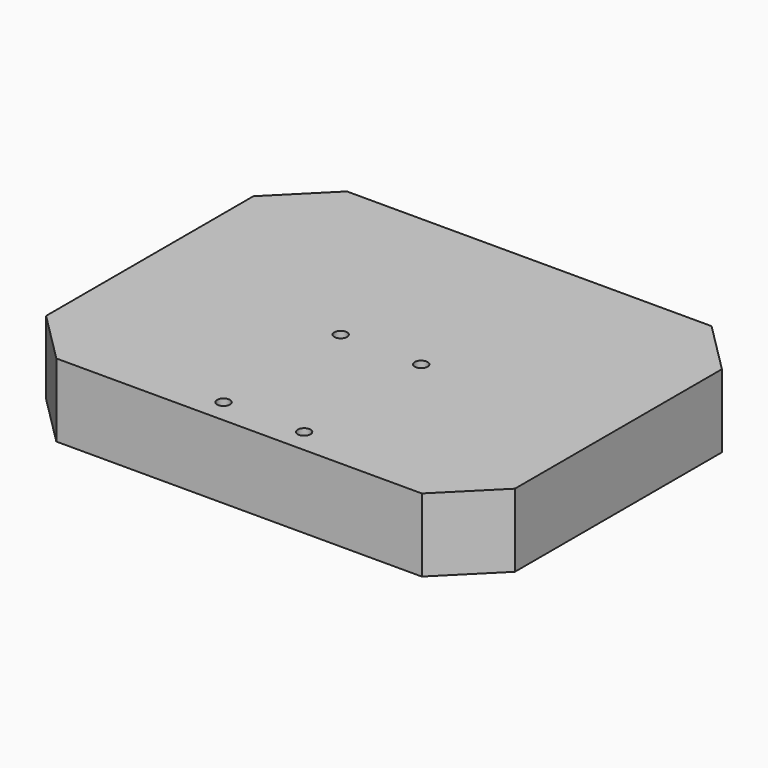
from build123d import *

# Parameters (mm, degrees)
CYLINDER004_R          = 1.75
CYLINDER004_DEPTH      = 6
ARRAY004_X_COUNT       = 2
ARRAY004_X_PITCH       = 22
ARRAY004_Y_COUNT       = 2
ARRAY004_Y_PITCH       = 40
BOX011_W               = 20
BOX011_H               = 20
BOX011_DEPTH           = 20
BOX011_PLACEMENT_ANGLE = 45
BOX012_W               = 20
BOX012_H               = 20
BOX012_DEPTH           = 20
BOX012_PLACEMENT_ANGLE = 45
BOX009_W               = 20
BOX009_H               = 20
BOX009_DEPTH           = 20
BOX009_PLACEMENT_ANGLE = -45
BOX010_W               = 20
BOX010_H               = 20
BOX010_DEPTH           = 20
BOX010_PLACEMENT_ANGLE = -45
BOX008_W               = 128
BOX008_H               = 99
BOX008_DEPTH           = 20
CUT005_PLACEMENT_ANGLE = 180


with BuildPart() as array004:
    # Cylinder004 → Cylinder004 (new body)
    with BuildSketch(Plane.XY):
        Circle(CYLINDER004_R)
    extrude(amount=CYLINDER004_DEPTH)

    # Array004 X: Array004 ×2


with BuildPart() as array004_1:
    add(array004.part)
    with Locations(*[(i * ARRAY004_X_PITCH, 0, 0) for i in range(1, ARRAY004_X_COUNT)]):
        add(array004.part)

    # Array004 Y: Array004 ×2


with BuildPart() as array004_2:
    add(array004_1.part)
    with Locations(*[(0, i * ARRAY004_Y_PITCH, 0) for i in range(1, ARRAY004_Y_COUNT)]):
        add(array004_1.part)


with BuildPart() as array004_3:
    # Array004 placement: moved
    add(array004_2.part.moved(Location((37.5, -8, 0))))


with BuildPart() as cubo007:
    # Box011 → Box011 (new body)
    with BuildSketch(Plane.XY):
        with Locations((10, 10)):
            Rectangle(BOX011_W, BOX011_H)
    extrude(amount=BOX011_DEPTH)


with BuildPart() as cubo007_1:
    # Box011 placement: moved
    add(cubo007.part.moved(Location((-14, -28.65, 0))).rotate(Axis((-14, -28.65, 0), (0, 0, 1)), BOX011_PLACEMENT_ANGLE))


with BuildPart() as cubo008:
    # Box012 → Box012 (new body)
    with BuildSketch(Plane.XY):
        with Locations((10, 10)):
            Rectangle(BOX012_W, BOX012_H)
    extrude(amount=BOX012_DEPTH)


with BuildPart() as cubo008_1:
    # Box012 placement: moved
    add(cubo008.part.moved(Location((-14, 70.35, 0))).rotate(Axis((-14, 70.35, 0), (0, 0, 1)), BOX012_PLACEMENT_ANGLE))


with BuildPart() as cubo005:
    # Box009 → Box009 (new body)
    with BuildSketch(Plane.XY):
        with Locations((10, 10)):
            Rectangle(BOX009_W, BOX009_H)
    extrude(amount=BOX009_DEPTH)


with BuildPart() as cubo005_1:
    # Box009 placement: moved
    add(cubo005.part.moved(Location((100, -14.5, 0))).rotate(Axis((100, -14.5, 0), (0, 0, 1)), BOX009_PLACEMENT_ANGLE))


with BuildPart() as fusion005:
    # Box010 → Box010 (new body)
    with BuildSketch(Plane.XY):
        with Locations((10, 10)):
            Rectangle(BOX010_W, BOX010_H)
    extrude(amount=BOX010_DEPTH)


with BuildPart() as fusion005_1:
    # Box010 placement: moved
    add(fusion005.part.moved(Location((99.8, 84.5, 0))).rotate(Axis((99.8, 84.5, 0), (0, 0, 1)), BOX010_PLACEMENT_ANGLE))

    # Fusion005: union Cubo007, Cubo008, Cubo005
    add(cubo007_1.part)
    add(cubo008_1.part)
    add(cubo005_1.part)


with BuildPart() as obj1:
    # Box008 → Box008 (new body)
    with BuildSketch(Plane(origin=(-14, -14.5, 0), x_dir=(1, 0, 0), z_dir=(0, 0, 1))):
        with Locations((64, 49.5)):
            Rectangle(BOX008_W, BOX008_H)
    extrude(amount=BOX008_DEPTH)

    # Cut004: cut Fusion005
    add(fusion005_1.part, mode=Mode.SUBTRACT)

    # Cut005: cut Array004
    add(array004_3.part, mode=Mode.SUBTRACT)


with BuildPart() as obj1_1:
    # Cut005 placement: moved
    add(obj1.part.moved(Location((71, -33.7, -17))).rotate(Axis((71, -33.7, -17), (0, 1, 0)), CUT005_PLACEMENT_ANGLE))


solid = obj1_1.part
